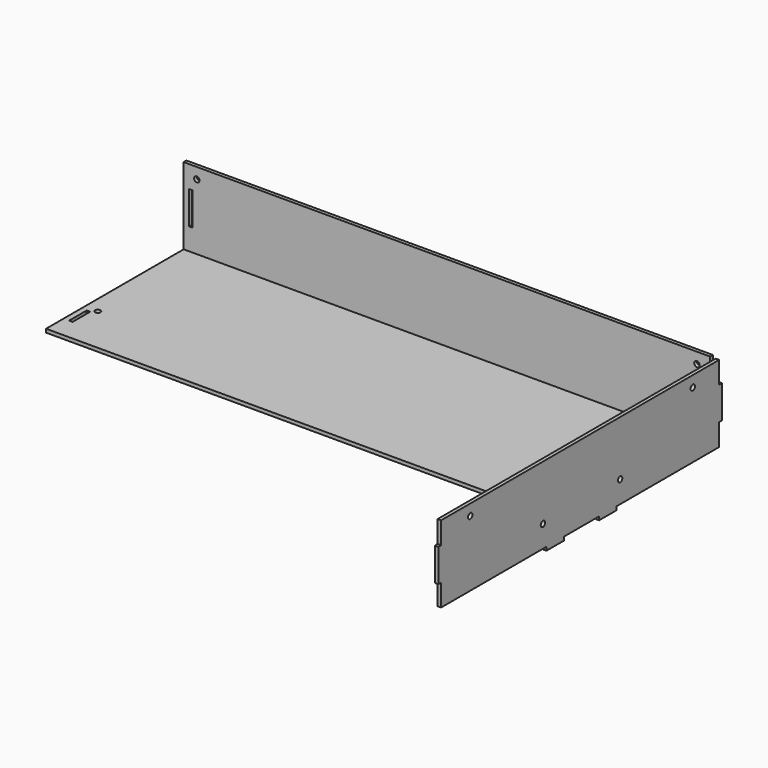
from build123d import *

# Parameters (mm, degrees)
F0_W     = 2400
F0_H     = 784
F0_W_2   = 16
F0_H_2   = 100
F0_R     = 12.5
F1_DEPTH = 16
F2_W     = 2400
F2_H     = 350
F2_R     = 12.5
F2_W_2   = 16
F2_H_2   = 150
F3_DEPTH = 16
F5_R     = 12.5
F6_DEPTH = 16


with BuildPart() as f1:
    # F0 (on Top) → F1 (new body)
    with BuildSketch(Plane.XY):
        with Locations((321.3600905152, 483.3240949462)):
            Rectangle(F0_W, F0_H)
        with Locations((-845.6399094848, 241.3240949462)):
            Rectangle(F0_W_2, F0_H_2, mode=Mode.SUBTRACT)
        with Locations((-818.6399094848, 311.3240949462)):
            Circle(F0_R, mode=Mode.SUBTRACT)
        with Locations((1488.3600905152, 241.3240949462)):
            Rectangle(F0_W_2, F0_H_2, mode=Mode.SUBTRACT)
        with Locations((1461.3600905152, 311.3240949462)):
            Circle(F0_R, mode=Mode.SUBTRACT)
    extrude(amount=F1_DEPTH)


with BuildPart() as f3:
    # F2 (on face) → F3 (new body)
    with BuildSketch(Plane(origin=(0, 875.3240949462, 0), x_dir=(-1, 0, 0), z_dir=(0, 1, 0))):
        with Locations((-321.3600905152, 191)):
            Rectangle(F2_W, F2_H)
        Polygon((-1480.3600905152, 266), (-1480.3600905152, 116), (-1496.3600905152, 116), (-1496.279492721, 266), align=None, mode=Mode.SUBTRACT)
        with Locations((-1461.3600905152, 316)):
            Circle(F2_R, mode=Mode.SUBTRACT)
        with Locations((845.6399094848, 191)):
            Rectangle(F2_W_2, F2_H_2, mode=Mode.SUBTRACT)
        with Locations((818.6399094848, 316)):
            Circle(F2_R, mode=Mode.SUBTRACT)
    extrude(amount=F3_DEPTH)


with BuildPart() as f6:
    # F5 (on offset) → F6 (new body)
    with BuildSketch(Plane.YZ.offset(1546.3600905152)):
        Polygon((91.3240949462, 16), (191.3240949462, 16), (191.3240949462, 0), (291.3240949462, 0), (291.3240949462, 16), (875.3240949462, 16), (875.3240949462, 116), (891.3240949462, 116), (891.3240949462, 266), (875.3240949462, 266), (875.3240949462, 366), (91.3240949462, 366), (-708.6759050538, 366), (-708.6759050538, 266), (-724.6759050538, 266), (-724.6759050538, 116), (-708.6759050538, 116), (-708.6759050538, 16), (-108.6759050538, 16), (-108.6759050538, 0), (-8.6759050538, 0), (-8.6759050538, 16), align=None)
        with Locations((-128.6759050538, 116)):
            Circle(F5_R, mode=Mode.SUBTRACT)
        with Locations((311.3240949462, 116)):
            Circle(F5_R, mode=Mode.SUBTRACT)
        with Locations((-542.6759050538, 316)):
            Circle(F5_R, mode=Mode.SUBTRACT)
        with Locations((725.3240949462, 316)):
            Circle(F5_R, mode=Mode.SUBTRACT)
    extrude(amount=F6_DEPTH)


solid = Compound([f1.part, f3.part, f6.part])
